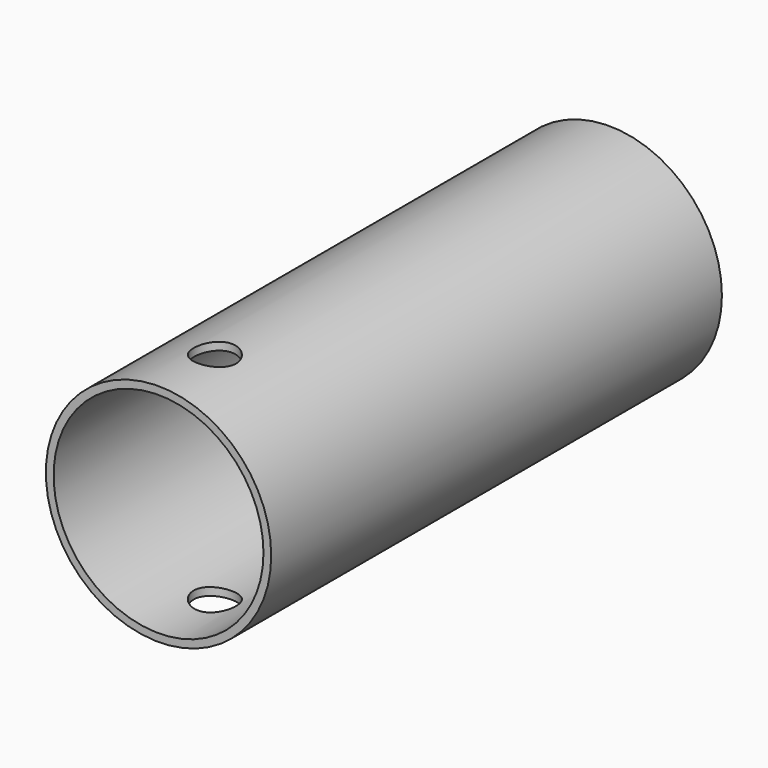
from build123d import *

# Parameters (mm, degrees)
SKETCH003_R     = 8
PAD003_DEPTH    = 40
SKETCH004_R     = 1.5
POCKET_DEPTH    = 13.5
SKETCH005_R     = 7.45
POCKET001_DEPTH = 40.001


with BuildPart() as part:
    # Sketch003 → Pad003 (new body)
    with BuildSketch(Plane.XZ):
        with Locations((0, 15)):
            Circle(SKETCH003_R)
    extrude(amount=-PAD003_DEPTH)

    # Sketch004 (on DatumPlane) → Pocket (cut, symmetric)
    with BuildSketch(Plane.XY.offset(15)):
        with Locations((0, 5)):
            Circle(SKETCH004_R)
    extrude(amount=POCKET_DEPTH, both=True, mode=Mode.SUBTRACT)

    # Sketch005 → Pocket001 (cut, through all)
    with BuildSketch(Plane.XZ):
        with Locations((0, 15)):
            Circle(SKETCH005_R)
    extrude(amount=-POCKET001_DEPTH, mode=Mode.SUBTRACT)


with BuildPart() as part_1:
    # Body003 placement: moved
    add(part.part.moved(Location((0, -11, 0))))


solid = part_1.part
